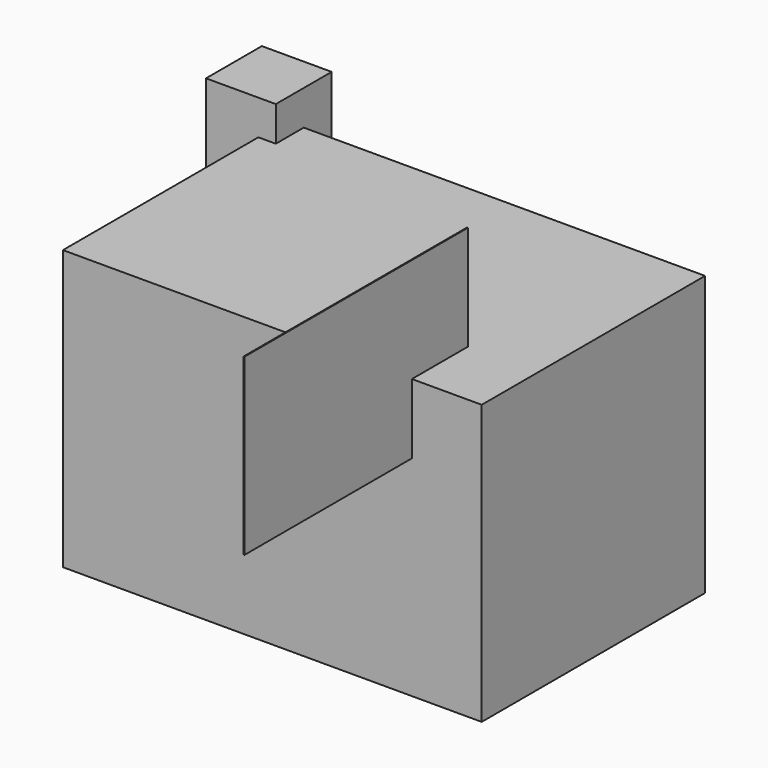
from build123d import *

# Parameters (mm, degrees)
F0_W     = 76.2
F0_H     = 50.8
F1_DEPTH = 50.8
F2_W     = 0.1524
F2_H     = 12.7
F3_DEPTH = 12.7
F4_W     = 0.1524
F4_H     = 19.05
F4_H_2   = 12.7
F5_DEPTH = 50.8
F6_W     = 6.35
F6_H     = 19.05
F7_DEPTH = 3.175
F8_W     = 3.175
F8_H     = 6.35
F9_DEPTH = 25.4


with BuildPart() as f1:
    # F0 (on Front) → F1 (new body)
    with BuildSketch(Plane.XZ):
        with Locations((35.376799, 26.406373)):
            Rectangle(F0_W, F0_H)
    extrude(amount=F1_DEPTH)

    # F2 (on face) → F3 (cut)
    with BuildSketch(Plane.XZ.offset(50.8)):
        with Locations((60.700599, 45.456373)):
            Rectangle(F2_W, F2_H)
    extrude(amount=-F3_DEPTH, mode=Mode.SUBTRACT)

    # F4 (on face) → F5 (join)
    with BuildSketch(Plane.XZ.offset(38.1)):
        with Locations((60.700599, 61.331373)):
            Rectangle(F4_W, F4_H)
        with Locations((60.700599, 45.456373)):
            Rectangle(F4_W, F4_H_2)
    extrude(amount=F5_DEPTH)

    # F6 (on face) → F7 (cut)
    with BuildSketch(Plane(origin=(-2.723201, 0, 0), x_dir=(0, -1, 0), z_dir=(-1, 0, 0))):
        with Locations((3.175, 42.281373)):
            Rectangle(F6_W, F6_H)
    extrude(amount=-F7_DEPTH, mode=Mode.SUBTRACT)

    # F8 (on face) → F9 (join)
    with BuildSketch(Plane.XY.offset(32.756373)):
        Polygon((-12.248201, -6.35), (-2.723201, -6.35), (-2.723201, 0), (0.451799, 0), (0.451799, 6.35), (-12.248201, 6.35), align=None)
        with Locations((-1.135701, -3.175)):
            Rectangle(F8_W, F8_H)
    extrude(amount=F9_DEPTH)


solid = f1.part
